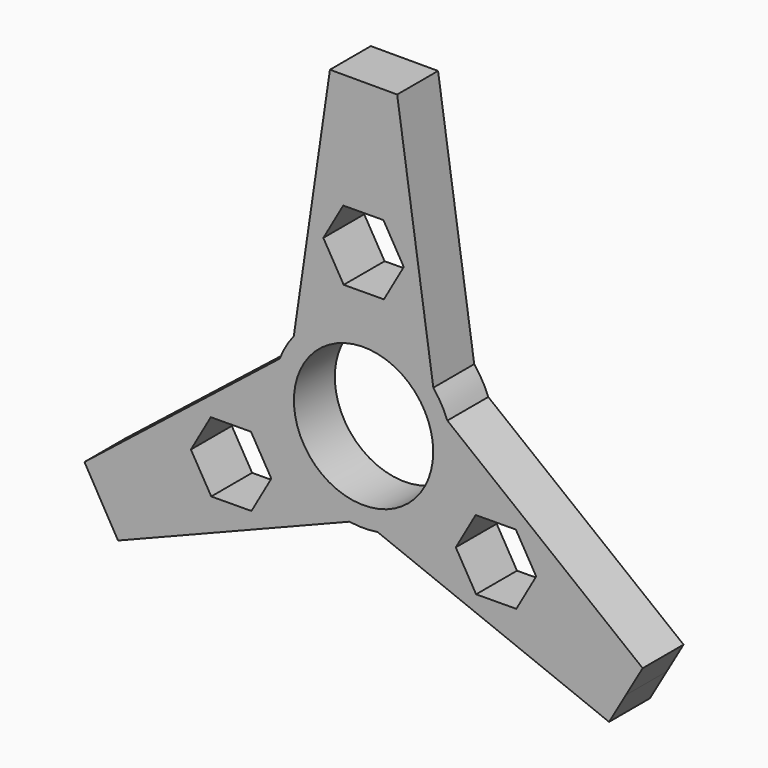
from build123d import *

# Parameters (mm, degrees)
F0_R     = 10.9
F1_DEPTH = 8


with BuildPart() as f1:
    # F0 (on Front) → F1 (new body)
    with BuildSketch(Plane.XZ):
        with BuildLine():
            ThreePointArc((13.117936, 5.032377), (13.815087, 2.55899), (14.050091, 0))
            ThreePointArc((14.050091, 0), (10.684721, -9.123694), (2.200802, -13.876654))
            Line((2.200802, -13.876654), (38.41781, -28.254619))
            Line((38.41781, -28.254619), (41.047966, -23.699054))
            Line((41.047966, -23.699054), (43.678123, -19.14349))
            Line((43.678123, -19.14349), (13.117936, 5.032377))
        make_face()
        Polygon((23.835569, -6.494973), (27.01901, -11.923511), (23.909478, -17.394722), (17.616505, -17.437393), (14.433064, -12.008855), (17.542596, -6.537644), align=None, mode=Mode.SUBTRACT)
        with BuildLine():
            ThreePointArc((-10.917134, 8.844277), (0, 14.050091), (10.917134, 8.844277))
            Line((10.917134, 8.844277), (5.260312, 47.398109))
            Line((5.260312, 47.398109), (0, 47.398109))
            Line((0, 47.398109), (-5.260312, 47.398109))
            Line((-5.260312, 47.398109), (-10.917134, 8.844277))
        make_face()
        Polygon((3.183441, 18.503827), (-3.109532, 18.461156), (-6.292973, 23.889694), (-3.183441, 29.360905), (3.109532, 29.403576), (6.292973, 23.975038), align=None, mode=Mode.SUBTRACT)
        with BuildLine():
            Line((-38.41781, -28.254619), (-2.200802, -13.876654))
            ThreePointArc((-2.200802, -13.876654), (-12.167736, -7.025045), (-13.117936, 5.032377))
            Line((-13.117936, 5.032377), (-43.678123, -19.14349))
            Line((-43.678123, -19.14349), (-41.047966, -23.699054))
            Line((-41.047966, -23.699054), (-38.41781, -28.254619))
        make_face()
        Polygon((-17.542596, -17.394722), (-23.835569, -17.437393), (-27.01901, -12.008855), (-23.909478, -6.537644), (-17.616505, -6.494973), (-14.433064, -11.923511), align=None, mode=Mode.SUBTRACT)
        with BuildLine():
            ThreePointArc((2.200802, -13.876654), (10.684721, -9.123694), (14.050091, 0))
            ThreePointArc((14.050091, 0), (13.815087, 2.55899), (13.117936, 5.032377))
            ThreePointArc((13.117936, 5.032377), (12.167736, 7.025045), (10.917134, 8.844277))
            ThreePointArc((10.917134, 8.844277), (0, 14.050091), (-10.917134, 8.844277))
            ThreePointArc((-10.917134, 8.844277), (-12.167736, 7.025045), (-13.117936, 5.032377))
            ThreePointArc((-13.117936, 5.032377), (-12.167736, -7.025045), (-2.200802, -13.876654))
            ThreePointArc((-2.200802, -13.876654), (0, -14.050091), (2.200802, -13.876654))
        make_face()
        Circle(F0_R, mode=Mode.SUBTRACT)
    extrude(amount=F1_DEPTH)


solid = f1.part
